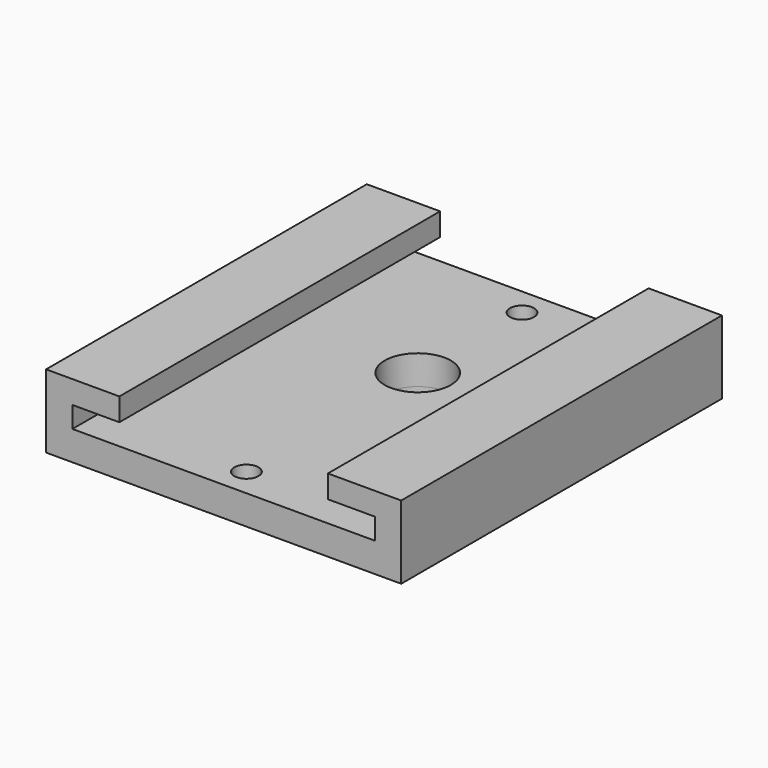
from build123d import *

# Parameters (mm, degrees)
F0_W     = 34.0868
F0_H     = 38.481
F1_DEPTH = 7.0358
F2_W     = 20.0152
F2_H     = 2.1844
F3_DEPTH = 38.482
F4_W     = 29.0322
F4_H     = 2.032
F5_DEPTH = 38.482
F6_R     = 1.1557
F6_R_2   = 3.175
F7_DEPTH = 25.4
F8_R     = 7.0485
F8_R_2   = 3.175
F9_DEPTH = 5.0038


with BuildPart() as f1:
    # F0 (on Top) → F1 (new body)
    with BuildSketch(Plane.XY):
        with Locations((-27.354376, 30.454514)):
            Rectangle(F0_W, F0_H)
    extrude(amount=F1_DEPTH)

    # F2 (on face) → F3 (cut, through all)
    with BuildSketch(Plane.XZ.offset(-11.214014)):
        with Locations((-27.354376, 5.9436)):
            Rectangle(F2_W, F2_H)
    extrude(amount=-F3_DEPTH, mode=Mode.SUBTRACT)

    # F4 (on face) → F5 (cut, through all)
    with BuildSketch(Plane.XZ.offset(-11.214014)):
        with Locations((-27.354376, 3.8354)):
            Rectangle(F4_W, F4_H)
    extrude(amount=-F5_DEPTH, mode=Mode.SUBTRACT)

    # F6 (on face) → F7 (cut)
    with BuildSketch(Plane(origin=(0, 0, 0), x_dir=(1, 0, 0), z_dir=(0, 0, -1))):
        with Locations((-27.354376, -13.944514)):
            Circle(F6_R)
        with Locations((-27.354376, -34.505814)):
            Circle(F6_R_2)
        with Locations((-27.354376, -47.015314)):
            Circle(F6_R)
    extrude(amount=-F7_DEPTH, mode=Mode.SUBTRACT)

    # F8 (on face) → F9 (join)
    with BuildSketch(Plane(origin=(0, 0, 0), x_dir=(1, 0, 0), z_dir=(0, 0, -1))):
        with Locations((-27.354376, -34.505814)):
            Circle(F8_R)
        with Locations((-27.354376, -34.505814)):
            Circle(F8_R_2, mode=Mode.SUBTRACT)
    extrude(amount=F9_DEPTH)


solid = f1.part
